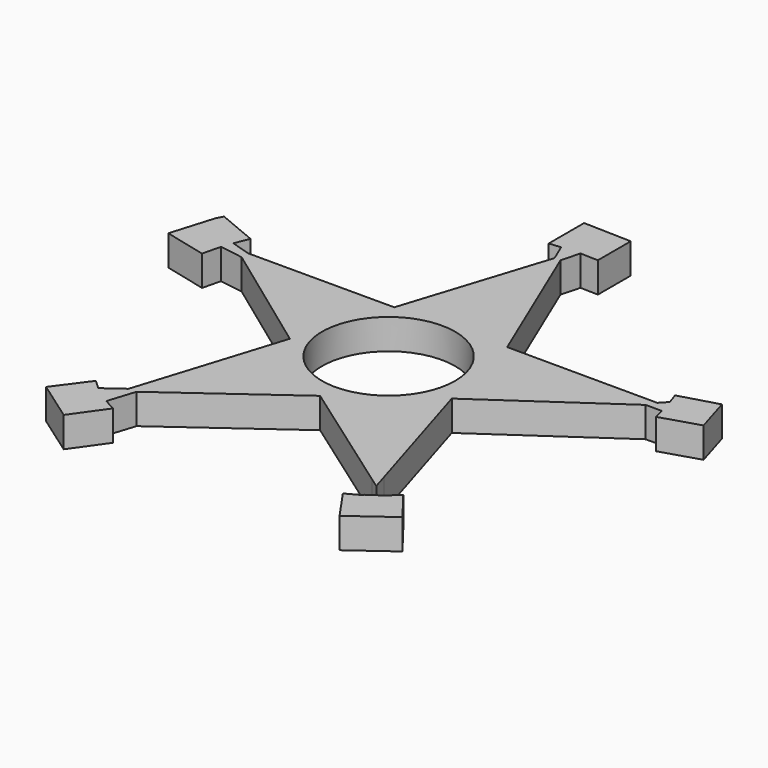
from build123d import *

# Parameters (mm, degrees)
F0_R     = 11
F1_DEPTH = 5


with BuildPart() as f1:
    # F0 (on Top) → F1 (new body)
    with BuildSketch(Plane.XY):
        Polygon((-35.983337, 10.386508), (-35.358938, 12.142668), (-34.412199, 14.497939), (-40.969221, 17.232985), (-41.5092, 16.212044), (-43.659611, 9.085013), (-36.721794, 7.380606), align=None)
        Polygon((-0.423277, 34.78709), (-7.98034, 11.148182), (-32.102406, 11.148182), (-33.981182, 11.148182), (-32.094358, 9.773472), (-13.011287, -4.130145), (-20.528598, -28.046847), (-20.920927, -29.295059), (-19.197311, -28.046847), (0, -14.144494), (19.681766, -28.079043), (21.399319, -29.295059), (20.604077, -26.682617), (13.738975, -4.130145), (34.36802, 10.109322), (36.378302, 11.496944), (35.178954, 11.500106), (10.33783, 11.565592), (0.557643, 34.78709), (0, 36.111124), align=None)
        Circle(F0_R, mode=Mode.SUBTRACT)
        Polygon((36.308358, 12.688762), (36.378302, 11.496944), (37.031446, 10.1023), (37.473929, 8.329974), (43.789501, 10.293896), (41.961973, 16.375898), (35.664974, 14.554929), align=None)
        Polygon((37.031446, 10.1023), (36.378302, 11.496944), (34.36802, 10.109322), align=None)
        Polygon((36.308358, 12.688762), (35.178954, 11.500106), (36.378302, 11.496944), align=None)
        Polygon((-33.981182, 11.148182), (-32.102406, 11.148182), (-35.358938, 12.142668), (-35.983337, 10.386508), (-32.094358, 9.773472), align=None)
        Polygon((-1.643313, 37.683871), (-0.423277, 34.78709), (0, 36.111124), (0.557643, 34.78709), (1.379906, 37.906332), align=None)
        Polygon((-3.562494, 37.513921), (-1.643313, 37.683871), (1.379906, 37.906332), (4.319355, 37.809081), (4.319355, 44.603056), (-3.562494, 44.825637), align=None)
        Polygon((-20.622214, -32.524404), (-23.699661, -30.343274), (-25.199749, -28.925184), (-29.155998, -34.279025), (-22.491049, -38.970123), (-18.66167, -33.561341), align=None)
        Polygon((-20.920927, -29.295059), (-20.528598, -28.046847), (-23.699661, -30.343274), (-20.622214, -32.524404), (-19.197311, -28.046847), align=None)
        Polygon((24.538515, -30.240556), (21.688054, -32.175531), (21.721264, -32.306544), (19.326136, -33.602261), (22.899702, -38.752927), (29.455275, -33.965808), (25.681943, -29.06948), (24.576025, -30.041867), align=None)
    extrude(amount=F1_DEPTH)


solid = f1.part
